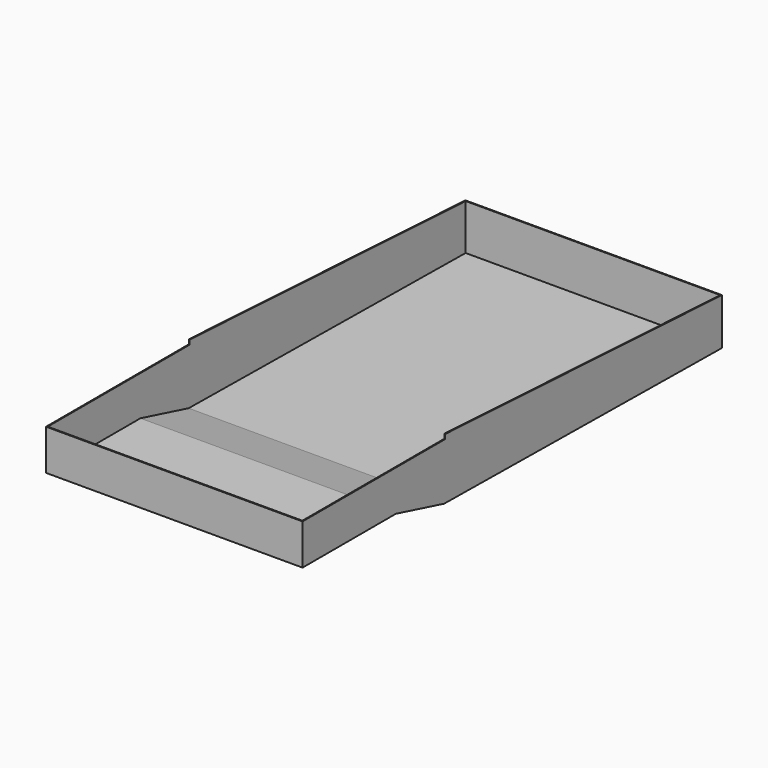
from build123d import *

# Parameters (mm, degrees)
F1_DEPTH = 355.6
F2_T     = -2.54


with BuildPart() as f1:
    # F0 (on Right) → F1 (new body, symmetric)
    with BuildSketch(Plane.YZ):
        Polygon((-6379.0578842163, 130.4827034473), (-6379.0578842163, 259.719401598), (-7338.1624221802, 310.4270994663), (-7338.1624221802, 298.0328202248), (-7832.6945304871, 298.0328202248), (-7832.6945304871, 185.2447986603), (-7509.2034339905, 185.2447986603), (-7341.8807983398, 141.8647617102), align=None)
    extrude(amount=F1_DEPTH, both=True)

    # F2
    f2_openings = [f1.faces().sort_by_distance(p)[0] for p in [
        (0, -6858.610153, 285.073251),
        (0, -7338.162422, 304.22996),
        (0, -7585.428476, 298.03282),
    ]]
    offset(amount=F2_T, openings=f2_openings, kind=Kind.INTERSECTION)


solid = f1.part
